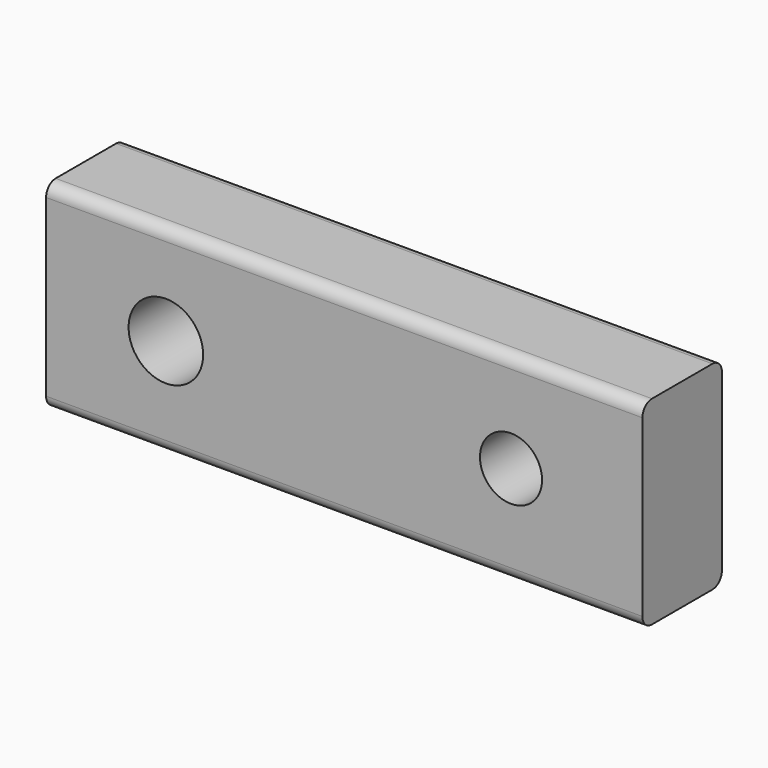
from build123d import *

# Parameters (mm, degrees)
F0_W     = 152.4
F0_H     = 50.8
F0_R     = 9.525
F0_R_2   = 7.9375
F1_DEPTH = 25.4
F2_R     = 3.048


with BuildPart() as f1:
    # F0 (on Front) → F1 (new body)
    with BuildSketch(Plane.XZ):
        Rectangle(F0_W, F0_H)
        with Locations((-45.585562, 0)):
            Circle(F0_R, mode=Mode.SUBTRACT)
        with Locations((42.618919, 0)):
            Circle(F0_R_2, mode=Mode.SUBTRACT)
    extrude(amount=F1_DEPTH)

    # F2
    f2_edges = [f1.edges().sort_by_distance(p)[0] for p in [
        (0, -25.4, 25.4),
        (0, -25.4, -25.4),
        (0, 0, 25.4),
        (0, 0, -25.4),
    ]]
    fillet(f2_edges, radius=F2_R)


solid = f1.part
